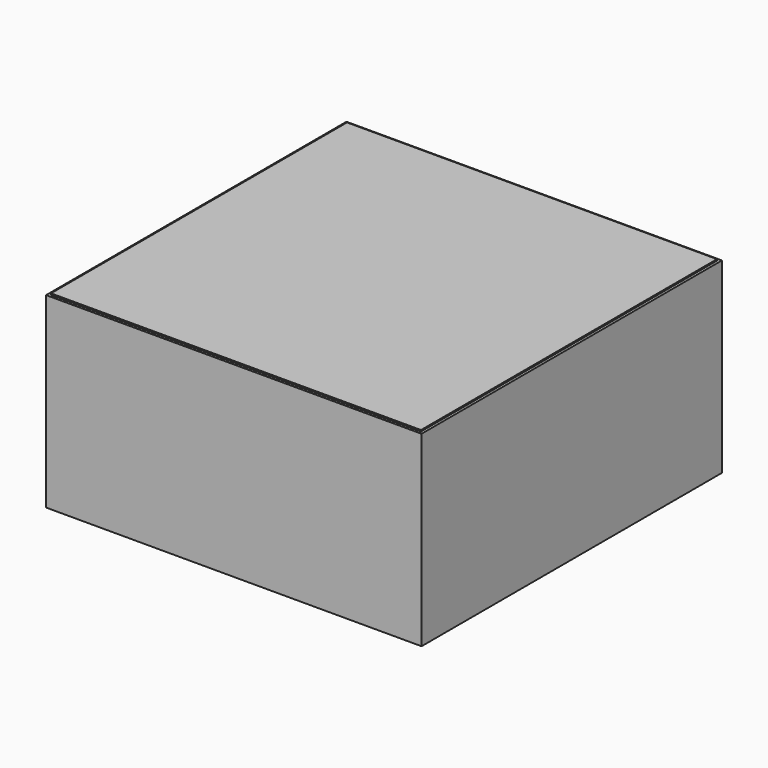
from build123d import *

# Parameters (mm, degrees)
F0_W     = 439.7375
F0_H     = 439.7502
F0_W_2   = 433.3875
F0_H_2   = 433.4002
F1_DEPTH = 219.075
F2_W     = 433.3875
F2_H     = 433.4002
F3_DEPTH = 1.5875


with BuildPart() as f1:
    # F0 (on Top) → F1 (new body)
    with BuildSketch(Plane.XY):
        with Locations((219.86875, 219.8751)):
            Rectangle(F0_W, F0_H)
        with Locations((219.86875, 219.8751)):
            Rectangle(F0_W_2, F0_H_2, mode=Mode.SUBTRACT)
    extrude(amount=F1_DEPTH)

    # F2 (on face) → F3 (join, symmetric)
    with BuildSketch(Plane.XY.offset(219.075)):
        with Locations((219.86875, 219.8751)):
            Rectangle(F2_W, F2_H)
    extrude(amount=F3_DEPTH, both=True)


solid = f1.part
